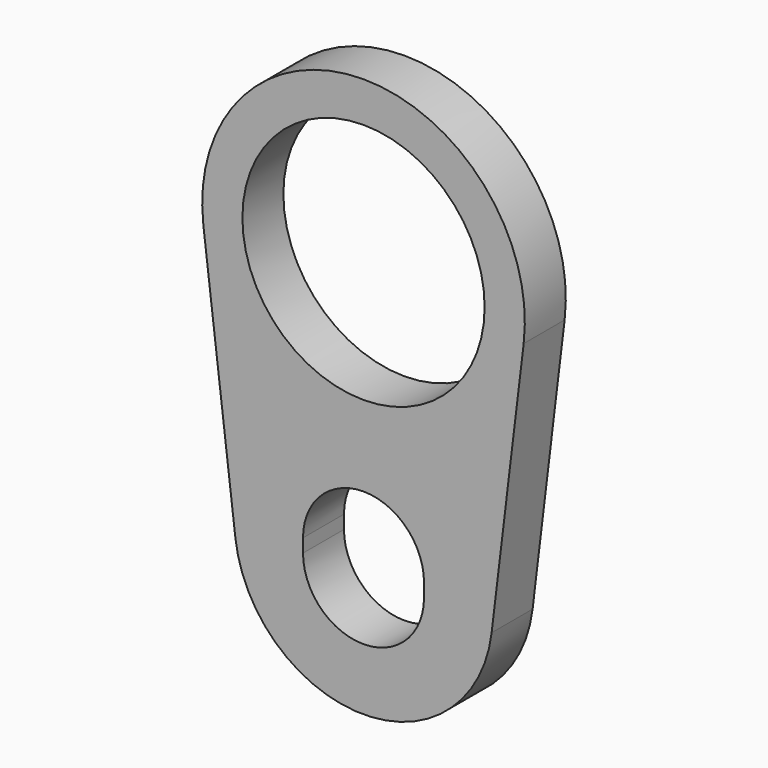
from build123d import *

# Parameters (mm, degrees)
F0_R     = 45.0469
F1_DEPTH = 19.05


with BuildPart() as f1:
    # F0 (on Front) → F1 (new body)
    with BuildSketch(Plane.XZ):
        with BuildLine():
            Line((47.6531468006, -105.76), (59.5664335008, -7.2))
            ThreePointArc((59.5664335008, -7.2), (0, 60), (-59.5664335008, -7.2))
            Line((-59.5664335008, -7.2), (-47.6531468006, -105.76))
            ThreePointArc((-47.6531468006, -105.76), (0, -148), (47.6531468006, -105.76))
        make_face()
        with BuildLine():
            Line((-22.5, -102.5), (-22.5, -97.5))
            ThreePointArc((-22.5, -97.5), (0, -75), (22.5, -97.5))
            Line((22.5, -97.5), (22.5, -102.5))
            ThreePointArc((22.5, -102.5), (0, -125), (-22.5, -102.5))
        make_face(mode=Mode.SUBTRACT)
        Circle(F0_R, mode=Mode.SUBTRACT)
    extrude(amount=F1_DEPTH)


solid = f1.part
